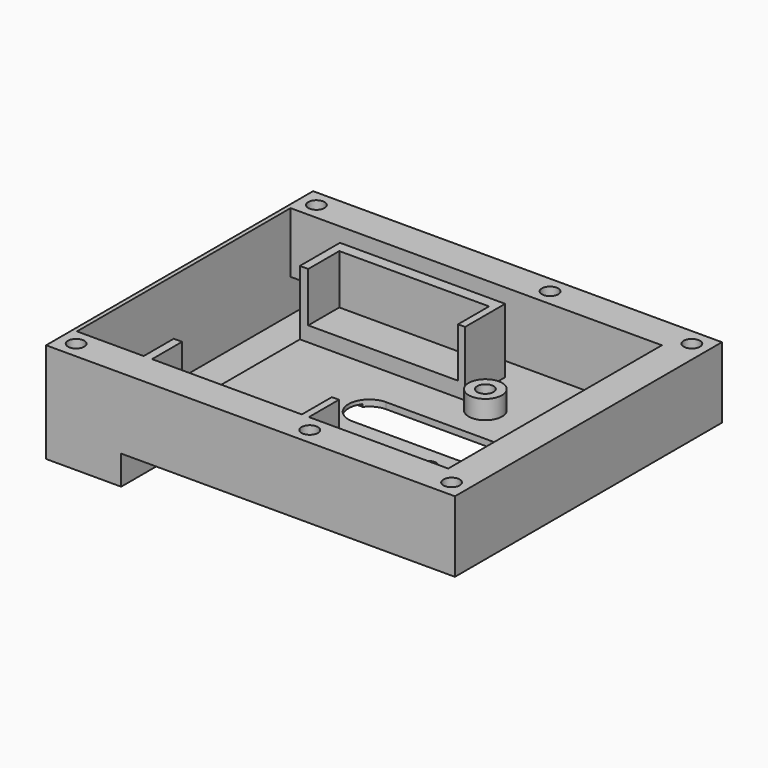
from build123d import *

# Parameters (mm, degrees)
PAD_DEPTH       = 40
POCKET_DEPTH    = 32
POCKET001_DEPTH = 1.5
SKETCH007_R     = 4
SKETCH007_R_2   = 1.95
SKETCH007_R_3   = 2
PAD005_DEPTH    = 6
SKETCH008_W     = 16
SKETCH008_H     = 8
POCKET002_DEPTH = 39
SKETCH013_R     = 1.95
POCKET003_DEPTH = 8
SKETCH018_W     = 39.6
SKETCH018_H     = 12
SKETCH018_H_2   = 9
PAD012_DEPTH    = 17
SKETCH019_W     = 35.9
SKETCH019_H     = 56.1
POCKET006_DEPTH = 11.9
SKETCH023_W     = 79.5
SKETCH023_H     = 6
POCKET007_DEPTH = 0.6


with BuildPart() as part:
    # Sketch → Pad (new body, symmetric)
    with BuildSketch(Plane.XZ):
        Polygon((-49, 17), (-49, -7), (-31, -7), (-31, 0), (49, 0), (49, 17), align=None)
    extrude(amount=PAD_DEPTH, both=True)

    # Sketch001 → Pocket (cut, symmetric)
    with BuildSketch(Plane.XZ):
        Polygon((-32, 1.5), (41, 1.5), (41, 18.5), (-48, 18.5), (-48, -5.5), (-32, -5.5), align=None)
    extrude(amount=POCKET_DEPTH, both=True, mode=Mode.SUBTRACT)

    # Sketch004 → Pocket001 (cut)
    with BuildSketch(Plane.XY):
        with BuildLine():
            ThreePointArc((-3.5, 5), (-8.5, 0), (-3.5, -5))
            Line((-3.5, -5), (21.5, -5))
            ThreePointArc((21.5, -5), (26.5, 0), (21.5, 5))
            Line((21.5, 5), (-3.5, 5))
        make_face()
    extrude(amount=POCKET001_DEPTH, mode=Mode.SUBTRACT)

    # Sketch007 → Pad005 (join)
    with BuildSketch(Plane.XY):
        with Locations((13.1, 14)):
            Circle(SKETCH007_R)
        with Locations((13.1, 14)):
            Circle(SKETCH007_R_2, mode=Mode.SUBTRACT)
        with Locations((35.1, 14)):
            Circle(SKETCH007_R)
        with Locations((35.1, 14)):
            Circle(SKETCH007_R_2, mode=Mode.SUBTRACT)
        with Locations((24.1, -17)):
            Circle(SKETCH007_R_3)
    extrude(amount=PAD005_DEPTH)

    # Sketch008 → Pocket002 (cut, symmetric)
    with BuildSketch(Plane.XZ):
        with Locations((-40, -1.5)):
            Rectangle(SKETCH008_W, SKETCH008_H)
    extrude(amount=POCKET002_DEPTH, both=True, mode=Mode.SUBTRACT)

    # Sketch013 (on DatumPlane) → Pocket003 (cut)
    with BuildSketch(Plane.XY.offset(17)):
        with Locations((-45, 36)):
            Circle(SKETCH013_R)
        with Locations((11, 36)):
            Circle(SKETCH013_R)
        with Locations((45, 36)):
            Circle(SKETCH013_R)
        with Locations((45, -36)):
            Circle(SKETCH013_R)
        with Locations((11, -36)):
            Circle(SKETCH013_R)
        with Locations((-45, -36)):
            Circle(SKETCH013_R)
    extrude(amount=-POCKET003_DEPTH, mode=Mode.SUBTRACT)

    # Sketch018 → Pad012 (join)
    with BuildSketch(Plane.XY):
        with Locations((-12.2, 20.8)):
            Rectangle(SKETCH018_W, SKETCH018_H)
        with Locations((-12.2, -27.5)):
            Rectangle(SKETCH018_W, SKETCH018_H_2)
    extrude(amount=PAD012_DEPTH)

    # Sketch019 (on DatumPlane) → Pocket006 (cut)
    with BuildSketch(Plane.XY.offset(17)):
        with Locations((-12.05, -3.95)):
            Rectangle(SKETCH019_W, SKETCH019_H)
    extrude(amount=-POCKET006_DEPTH, mode=Mode.SUBTRACT)

    # Sketch023 → Pocket007 (cut)
    with BuildSketch(Plane.XY):
        with Locations((8.75, 0)):
            Rectangle(SKETCH023_W, SKETCH023_H)
    extrude(amount=POCKET007_DEPTH, mode=Mode.SUBTRACT)


solid = part.part
